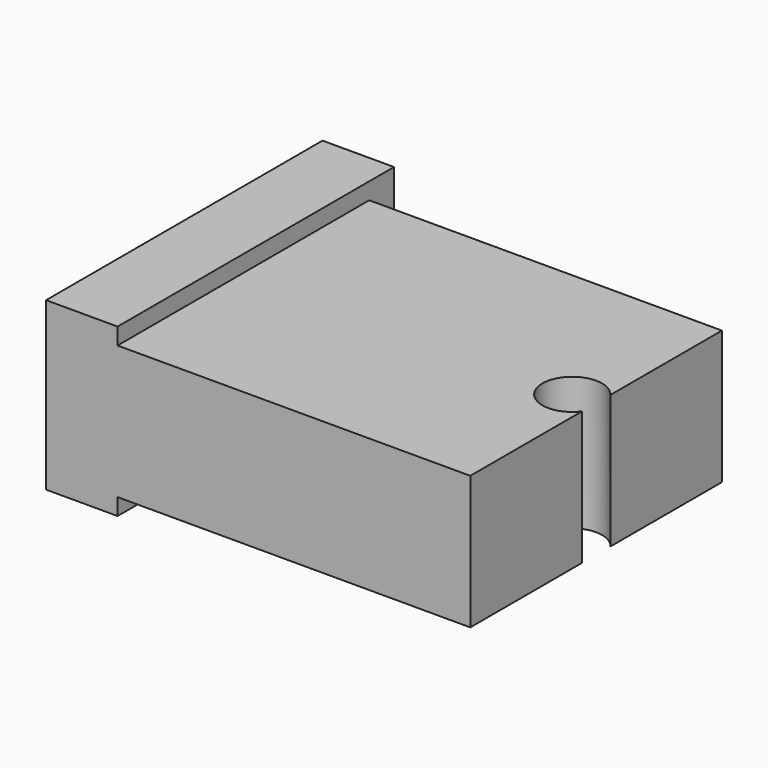
from build123d import *

# Parameters (mm, degrees)
F1_DEPTH = 5.6
F2_D     = 2.5
F2_DEPTH = 12
F3_W     = 13.2
F3_H     = 5.6
F4_DEPTH = 3


with BuildPart() as f1:
    # F0 (on Top) → F1 (new body)
    with BuildSketch(Plane.XY):
        with BuildLine():
            Line((7.4, 6.6), (-7.4, 6.6))
            Line((-7.4, 6.6), (-7.4, 0))
            Line((-7.4, 0), (5.3, 0))
            ThreePointArc((5.3, 0), (6.165479, 1.074709), (7.4, 0.458258))
            Line((7.4, 0.458258), (7.4, 6.6))
        make_face()
        with BuildLine():
            Line((5.3, 0), (-7.4, 0))
            Line((-7.4, 0), (-7.4, -6.6))
            Line((-7.4, -6.6), (7.4, -6.6))
            Line((7.4, -6.6), (7.4, -0.458258))
            ThreePointArc((7.4, -0.458258), (6.165479, -1.074709), (5.3, 0))
        make_face()
        with BuildLine():
            ThreePointArc((7.5, 0), (7.474709, 0.234521), (7.4, 0.458258))
            Line((7.4, 0.458258), (7.4, -0.458258))
            ThreePointArc((7.4, -0.458258), (7.474709, -0.234521), (7.5, 0))
        make_face()
        with BuildLine():
            Line((7.4, -0.458258), (7.4, 0.458258))
            ThreePointArc((7.4, 0.458258), (6.165479, 1.074709), (5.3, 0))
            ThreePointArc((5.3, 0), (6.165479, -1.074709), (7.4, -0.458258))
        make_face()
    extrude(amount=F1_DEPTH)

    # F2
    with Locations(Plane(origin=(0, 0, 0), x_dir=(1, 0, 0), z_dir=(0, 0, -1))):
        with Locations((6.4, 0)):
            Hole(F2_D / 2, depth=F2_DEPTH)

    # F3 (on face) → F4 (join)
    with BuildSketch(Plane(origin=(-7.4, 0, 0), x_dir=(0, -1, 0), z_dir=(-1, 0, 0))):
        Polygon((6.6, 6.3), (-7.9, 6.3), (-7.9, -0.7), (6.6, -0.7), (6.6, 0), (-6.6, 0), (-6.6, 5.6), (6.6, 5.6), align=None)
        with Locations((0, 2.8)):
            Rectangle(F3_W, F3_H)
    extrude(amount=F4_DEPTH)


solid = f1.part
